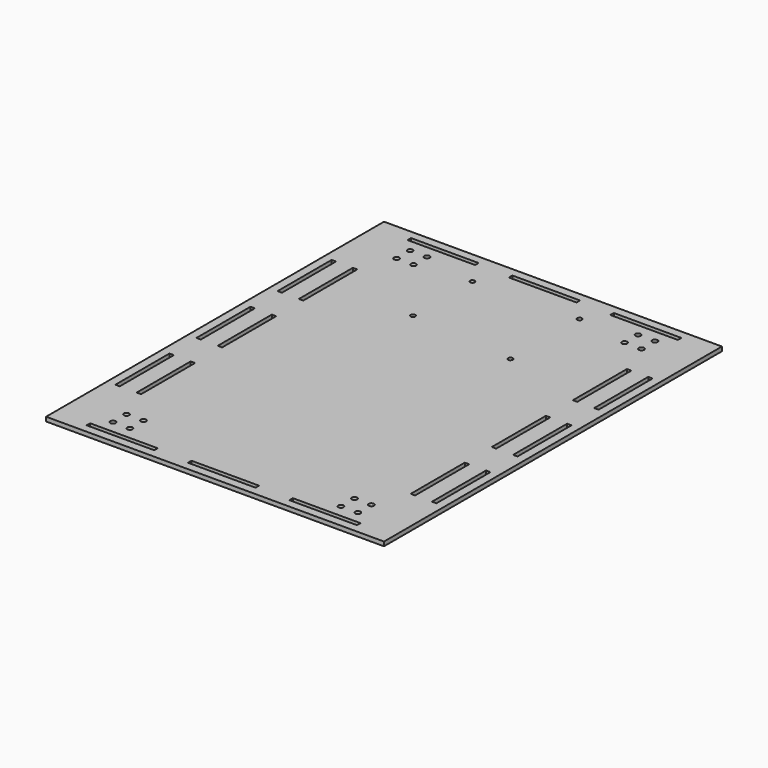
from build123d import *

# Parameters (mm, degrees)
F0_W     = 254
F0_H     = 317.5
F0_R     = 1.984375
F0_W_2   = 50.8
F0_H_2   = 3.302
F0_W_3   = 3.302
F0_H_3   = 50.8
F0_R_2   = 1.75
F1_DEPTH = 3.175


with BuildPart() as f1:
    # F0 (on Top) → F1 (new body)
    with BuildSketch(Plane.XY):
        Rectangle(F0_W, F0_H)
        with Locations((-92.023928, -139.573)):
            Circle(F0_R, mode=Mode.SUBTRACT)
        with Locations((-76.2, -150.749)):
            Rectangle(F0_W_2, F0_H_2, mode=Mode.SUBTRACT)
        with Locations((-79.323928, -139.573)):
            Circle(F0_R, mode=Mode.SUBTRACT)
        with Locations((-92.023928, -126.873)):
            Circle(F0_R, mode=Mode.SUBTRACT)
        with Locations((-79.323928, -126.873)):
            Circle(F0_R, mode=Mode.SUBTRACT)
        with Locations((-118.999, -76.2)):
            Rectangle(F0_W_3, F0_H_3, mode=Mode.SUBTRACT)
        with Locations((-102.997, -76.2)):
            Rectangle(F0_W_3, F0_H_3, mode=Mode.SUBTRACT)
        with Locations((0, -150.749)):
            Rectangle(F0_W_2, F0_H_2, mode=Mode.SUBTRACT)
        with Locations((76.2, -150.749)):
            Rectangle(F0_W_2, F0_H_2, mode=Mode.SUBTRACT)
        with Locations((79.323928, -139.573)):
            Circle(F0_R, mode=Mode.SUBTRACT)
        with Locations((92.023928, -139.573)):
            Circle(F0_R, mode=Mode.SUBTRACT)
        with Locations((79.323928, -126.873)):
            Circle(F0_R, mode=Mode.SUBTRACT)
        with Locations((92.023928, -126.873)):
            Circle(F0_R, mode=Mode.SUBTRACT)
        with Locations((102.997, -76.2)):
            Rectangle(F0_W_3, F0_H_3, mode=Mode.SUBTRACT)
        with Locations((118.999, -76.2)):
            Rectangle(F0_W_3, F0_H_3, mode=Mode.SUBTRACT)
        with Locations((-118.999, 0)):
            Rectangle(F0_W_3, F0_H_3, mode=Mode.SUBTRACT)
        with Locations((-102.997, 0)):
            Rectangle(F0_W_3, F0_H_3, mode=Mode.SUBTRACT)
        with Locations((-118.999, 76.2)):
            Rectangle(F0_W_3, F0_H_3, mode=Mode.SUBTRACT)
        with Locations((-102.997, 76.2)):
            Rectangle(F0_W_3, F0_H_3, mode=Mode.SUBTRACT)
        with Locations((-39.037, 76.041)):
            Circle(F0_R_2, mode=Mode.SUBTRACT)
        with Locations((-92.023928, 126.873)):
            Circle(F0_R, mode=Mode.SUBTRACT)
        with Locations((-79.323928, 126.873)):
            Circle(F0_R, mode=Mode.SUBTRACT)
        with Locations((-92.023928, 139.573)):
            Circle(F0_R, mode=Mode.SUBTRACT)
        with Locations((-79.323928, 139.573)):
            Circle(F0_R, mode=Mode.SUBTRACT)
        with Locations((-76.2, 150.749)):
            Rectangle(F0_W_2, F0_H_2, mode=Mode.SUBTRACT)
        with Locations((-39.037, 131.775)):
            Circle(F0_R_2, mode=Mode.SUBTRACT)
        with Locations((39.921, 68.858)):
            Circle(F0_R_2, mode=Mode.SUBTRACT)
        with Locations((102.997, 0)):
            Rectangle(F0_W_3, F0_H_3, mode=Mode.SUBTRACT)
        with Locations((118.999, 0)):
            Rectangle(F0_W_3, F0_H_3, mode=Mode.SUBTRACT)
        with Locations((102.997, 76.2)):
            Rectangle(F0_W_3, F0_H_3, mode=Mode.SUBTRACT)
        with Locations((118.999, 76.2)):
            Rectangle(F0_W_3, F0_H_3, mode=Mode.SUBTRACT)
        with Locations((0, 150.749)):
            Rectangle(F0_W_2, F0_H_2, mode=Mode.SUBTRACT)
        with Locations((39.921, 133.858)):
            Circle(F0_R_2, mode=Mode.SUBTRACT)
        with Locations((79.323928, 126.873)):
            Circle(F0_R, mode=Mode.SUBTRACT)
        with Locations((92.023928, 126.873)):
            Circle(F0_R, mode=Mode.SUBTRACT)
        with Locations((79.323928, 139.573)):
            Circle(F0_R, mode=Mode.SUBTRACT)
        with Locations((76.2, 150.749)):
            Rectangle(F0_W_2, F0_H_2, mode=Mode.SUBTRACT)
        with Locations((92.023928, 139.573)):
            Circle(F0_R, mode=Mode.SUBTRACT)
    extrude(amount=F1_DEPTH)


solid = f1.part
